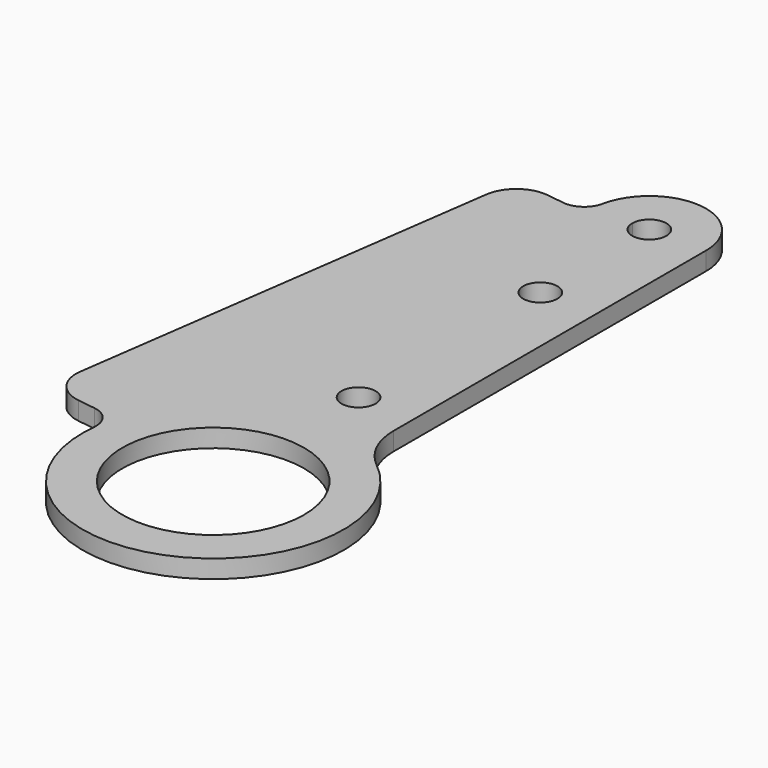
from build123d import *

# Parameters (mm, degrees)
F0_R     = 12.7
F0_R_2   = 2.3876
F1_DEPTH = 2.54


with BuildPart() as f1:
    # F0 (on Top) → F1 (new body)
    with BuildSketch(Plane.XY):
        with BuildLine():
            Line((-18.178387253, 1.8271623671), (-18.0802905133, 2.5285883446))
            ThreePointArc((-18.0802905133, 2.5285883446), (6.7082915, -16.979089764), (11.4695907587, 14.2034908347))
            ThreePointArc((11.4695907587, 14.2034908347), (8.8590799115, 17.5081948831), (7.9287251907, 21.6155390158))
            Line((7.9287251907, 21.6155390158), (7.9374998974, 76.19872398))
            ThreePointArc((7.9374998974, 76.19872398), (0.8030318302, 84.096774413), (-7.7752723233, 77.796573377))
            ThreePointArc((-7.7752723233, 77.796573377), (-9.0544203653, 75.8413239278), (-11.3251357474, 75.2908043777))
            Line((-11.3251357474, 75.2908043777), (-13.6986280664, 75.6227451177))
            ThreePointArc((-13.6986280664, 75.6227451177), (-17.2269678248, 74.7077157646), (-19.0748573337, 71.5657793346))
            Line((-19.0748573337, 71.5657793346), (-27.524347053, 11.148974385))
            ThreePointArc((-27.524347053, 11.148974385), (-26.6093176999, 7.6206346267), (-23.4673812699, 5.7727451177))
            Line((-23.4673812699, 5.7727451177), (-20.8830311084, 5.411315212))
            ThreePointArc((-20.8830311084, 5.411315212), (-18.7884068217, 4.1793888727), (-18.178387253, 1.8271623671))
        make_face()
        Circle(F0_R, mode=Mode.SUBTRACT)
        with Locations((0, 25.4)):
            Circle(F0_R_2, mode=Mode.SUBTRACT)
        with Locations((0, 57.15)):
            Circle(F0_R_2, mode=Mode.SUBTRACT)
        with BuildLine():
            ThreePointArc((2.38125, 76.2), (2.3812499923, 76.199808597), (2.3812499692, 76.199617194))
            ThreePointArc((2.3812499692, 76.199617194), (-0.000382806, 73.8187500308), (-2.3812499692, 76.200382806))
            ThreePointArc((-2.3812499692, 76.200382806), (0.000191403, 78.5812499923), (2.38125, 76.2))
        make_face(mode=Mode.SUBTRACT)
    extrude(amount=F1_DEPTH)


solid = f1.part
